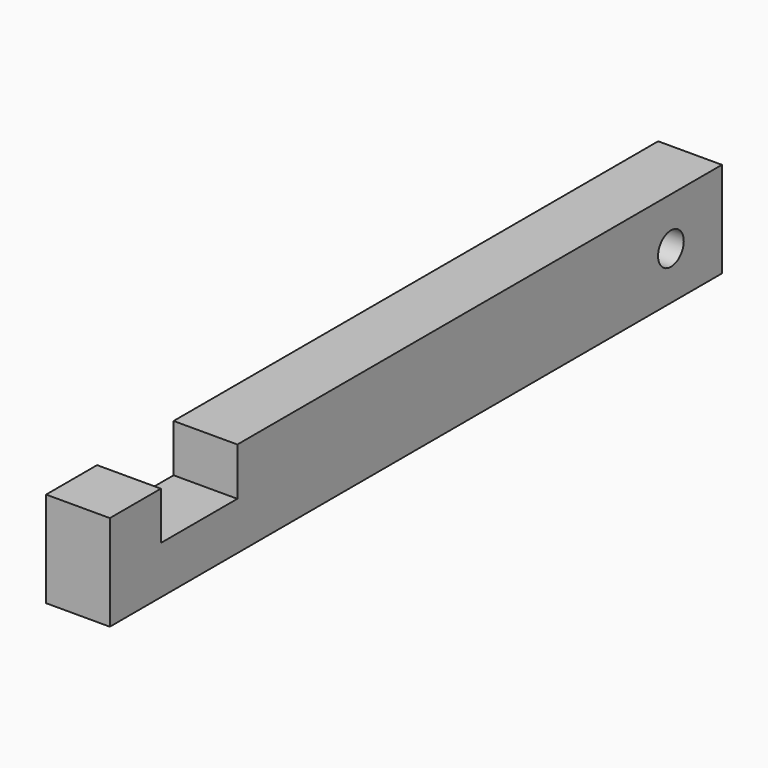
from build123d import *

# Parameters (mm, degrees)
F0_R     = 3.2004
F1_DEPTH = 12.7


with BuildPart() as f1:
    # F0 (on Right) → F1 (new body)
    with BuildSketch(Plane.YZ):
        Polygon((76.2, -9.525), (76.2, 9.525), (-44.45, 9.525), (-44.45, 0), (-63.5, 0), (-63.5, 9.525), (-76.2, 9.525), (-76.2, -9.525), align=None)
        with Locations((63.5, 0)):
            Circle(F0_R, mode=Mode.SUBTRACT)
    extrude(amount=F1_DEPTH)


solid = f1.part
